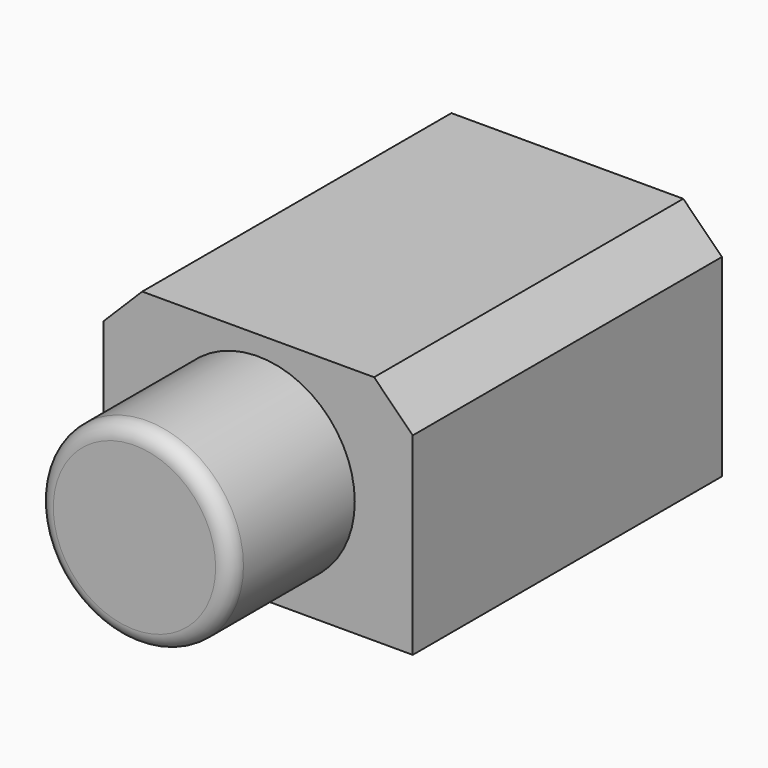
from build123d import *

# Parameters (mm, degrees)
F0_W     = 40
F0_H     = 30
F1_DEPTH = 50
F2_R     = 12.5
F3_DEPTH = 20
F4_R     = 2
F5_SIZE  = 5


with BuildPart() as f1:
    # F0 (on Front) → F1 (new body)
    with BuildSketch(Plane.XZ):
        Rectangle(F0_W, F0_H)
    extrude(amount=F1_DEPTH)

    # F2 (on face) → F3 (join)
    with BuildSketch(Plane.XZ.offset(50)):
        Circle(F2_R)
    extrude(amount=F3_DEPTH)

    # F4
    f4_edges = [f1.edges().sort_by_distance(p)[0] for p in [
        (-12.5, -70, 0),
    ]]
    fillet(f4_edges, radius=F4_R)

    # F5
    f5_edges = [f1.edges().sort_by_distance(p)[0] for p in [
        (-20, -25, 15),
        (20, -25, 15),
    ]]
    chamfer(f5_edges, length=F5_SIZE)


solid = f1.part
